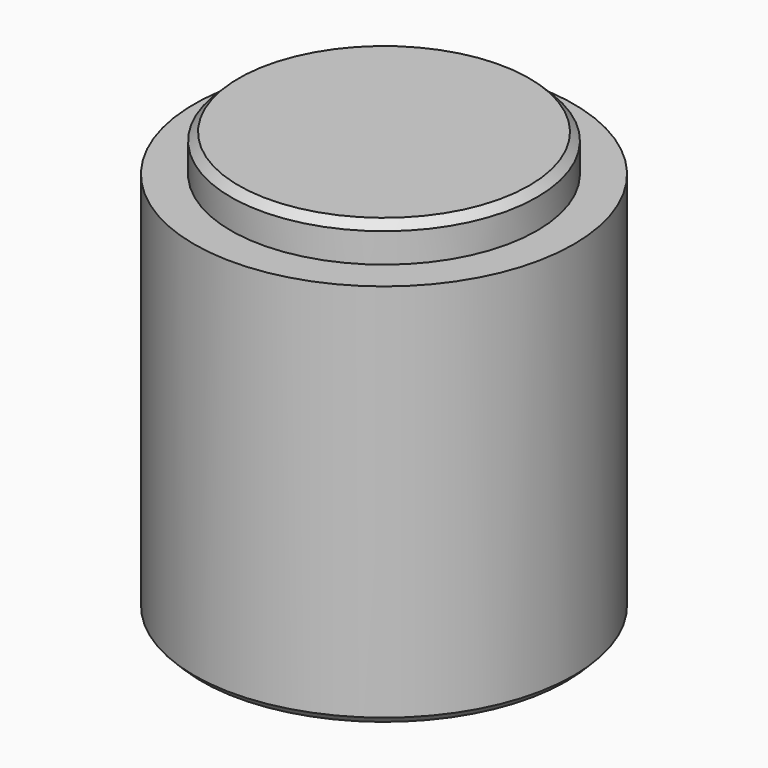
from build123d import *

# Parameters (mm, degrees)
F0_R     = 24.5
F1_DEPTH = 50
F2_R     = 19.75
F3_DEPTH = 4.8
F4_SIZE  = 1


with BuildPart() as f1:
    # F0 (on Top) → F1 (new body)
    with BuildSketch(Plane.XY):
        Circle(F0_R)
    extrude(amount=F1_DEPTH)

    # F2 (on face) → F3 (join)
    with BuildSketch(Plane.XY.offset(50)):
        Circle(F2_R)
    extrude(amount=F3_DEPTH)

    # F4
    f4_edges = [f1.edges().sort_by_distance(p)[0] for p in [
        (-24.5, 0, 0),
        (-19.75, 0, 54.8),
    ]]
    chamfer(f4_edges, length=F4_SIZE)


solid = f1.part
